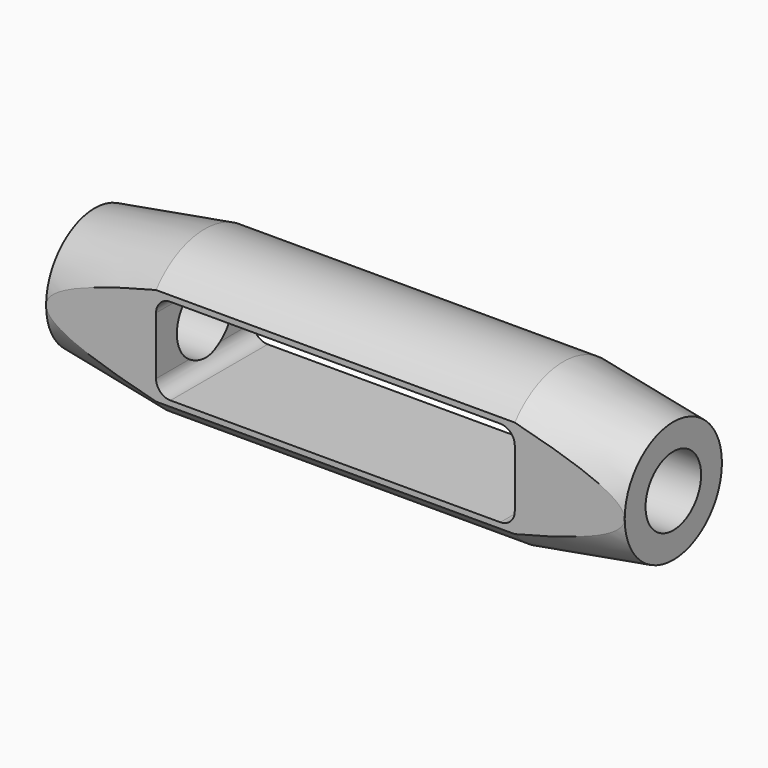
from build123d import *

# Parameters (mm, degrees)
SKETCH014_R      = 12
EXTRUDE006_DEPTH = 150
EXTRUDE005_DEPTH = 30
SKETCH012_W      = 15
SKETCH012_H      = 79.05159
SKETCH012_H_2    = 80
EXTRUDE004_DEPTH = 150


with BuildPart() as extrude006:
    # Sketch014 → Extrude006 (new body, symmetric)
    with BuildSketch(Plane.YZ):
        Circle(SKETCH014_R)
    extrude(amount=EXTRUDE006_DEPTH, both=True)


with BuildPart() as extrude005:
    # Sketch013 → Extrude005 (new body, symmetric)
    with BuildSketch(Plane.XZ):
        with BuildLine():
            Line((62, 10), (62, -10))
            ThreePointArc((57, -15), (60.535534, -13.535534), (62, -10))
            Line((57, -15), (-57, -15))
            ThreePointArc((-62, -10), (-60.535534, -13.535534), (-57, -15))
            Line((-62, -10), (-62, 10))
            ThreePointArc((-57, 15), (-60.535534, 13.535534), (-62, 10))
            Line((-57, 15), (57, 15))
            ThreePointArc((62, 10), (60.535534, 13.535534), (57, 15))
        make_face()
    extrude(amount=EXTRUDE005_DEPTH, both=True)


with BuildPart() as extrude004:
    # Sketch012 → Extrude004 (new body, symmetric)
    with BuildSketch(Plane.YZ):
        with Locations((-28.5, 0.159191)):
            Rectangle(SKETCH012_W, SKETCH012_H)
        with Locations((28.5, -0.315014)):
            Rectangle(SKETCH012_W, SKETCH012_H_2)
    extrude(amount=EXTRUDE004_DEPTH, both=True)


with BuildPart() as obj1:
    # Sketch011 → Revolve (revolve)
    with BuildSketch(Plane.XZ):
        Polygon((-100, 0), (-100, 21), (-62, 27), (62, 27), (100, 21), (100, 0), align=None)
    revolve(axis=Axis((-100, 0, 0), (-1, 0, 0)))

    # Cut004: cut Extrude004
    add(extrude004.part, mode=Mode.SUBTRACT)

    # Cut005: cut Extrude005
    add(extrude005.part, mode=Mode.SUBTRACT)

    # Cut006: cut Extrude006
    add(extrude006.part, mode=Mode.SUBTRACT)


with BuildPart() as obj1_1:
    # Cut006 placement: moved
    add(obj1.part.moved(Location((-404, 0, 0))))


solid = obj1_1.part
